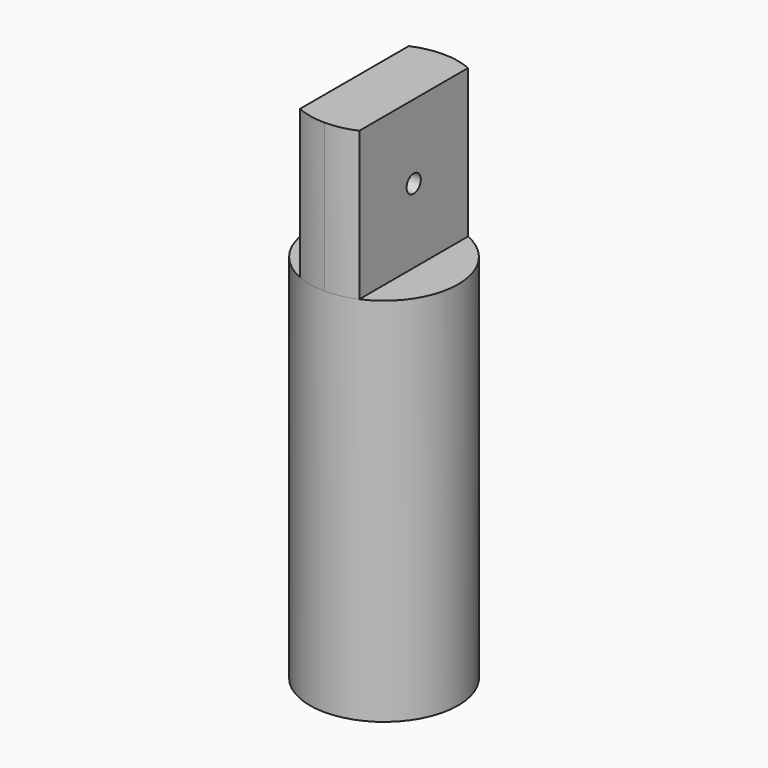
from build123d import *

# Parameters (mm, degrees)
F0_R     = 5
F1_DEPTH = 25
F2_R     = 2
F3_DEPTH = 10
F5_DEPTH = 10
F7_D     = 1.2


with BuildPart() as f1:
    # F0 (on Top) → F1 (new body)
    with BuildSketch(Plane.XY):
        Circle(F0_R)
    extrude(amount=F1_DEPTH)

    # F2 (on face) → F3 (cut)
    with BuildSketch(Plane(origin=(0, 0, 0), x_dir=(1, 0, 0), z_dir=(0, 0, -1))):
        Circle(F2_R)
    extrude(amount=-F3_DEPTH, mode=Mode.SUBTRACT)

    # F4 (on face) → F5 (join)
    with BuildSketch(Plane.XY.offset(25)):
        with BuildLine():
            ThreePointArc((2, 4.582575695), (1.0215482184, 4.8945315647), (0, 5))
            ThreePointArc((0, 5), (-1.0216339401, 4.8945136727), (-2.0001605153, 4.582505637))
            Line((-2.0001605153, 4.582505637), (-2.0001605153, -4.582505637))
            ThreePointArc((-2.0001605153, -4.582505637), (-1.0216339401, -4.8945136727), (0, -5))
            ThreePointArc((0, -5), (1.0215482184, -4.8945315647), (2, -4.582575695))
            Line((2, -4.582575695), (2, 4.582575695))
        make_face()
    extrude(amount=F5_DEPTH)

    # F7 (through all)
    with Locations(Plane(origin=(-2.0001605153, 0, 0), x_dir=(0, -1, 0), z_dir=(-1, 0, 0))):
        with Locations((0, 30)):
            Hole(F7_D / 2)


solid = f1.part
